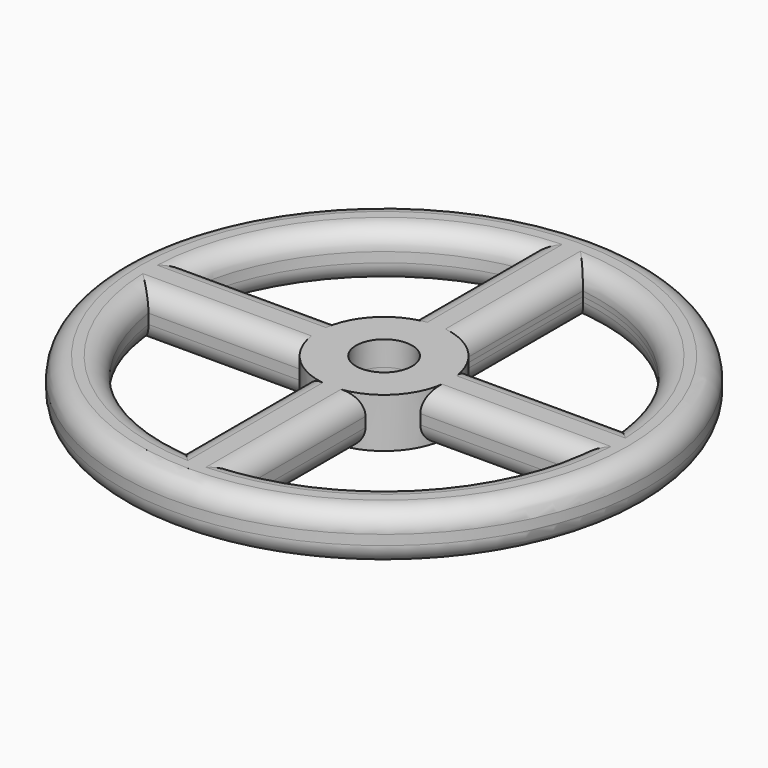
from build123d import *

# Parameters (mm, degrees)
F0_R          = 8
F0_W          = 1.75
F0_H          = 1.75
F0_R_2        = 0.85
F1_DEPTH      = 0.75
F1_DEPTH_BACK = 0.75
F2_R          = 0.6


with BuildPart() as f1:
    # F0 (on Top) → F1 (new body, two sides)
    with BuildSketch(Plane.XY) as f1_sk:
        Circle(F0_R)
        with BuildLine():
            ThreePointArc((0.875, 6.440836514), (4.5961940777, 4.5961940777), (6.440836514, 0.875))
            Line((6.440836514, 0.875), (7.3671648279, 0.875))
            Line((7.3671648279, 0.875), (7.3671648279, -0.875))
            Line((7.3671648279, -0.875), (6.440836514, -0.875))
            ThreePointArc((6.440836514, -0.875), (4.5961940777, -4.5961940777), (0.875, -6.440836514))
            Line((0.875, -6.440836514), (0.875, -6.9778915495))
            Line((0.875, -6.9778915495), (-0.875, -6.9778915495))
            Line((-0.875, -6.9778915495), (-0.875, -6.440836514))
            ThreePointArc((-0.875, -6.440836514), (-4.5961940777, -4.5961940777), (-6.440836514, -0.875))
            Line((-6.440836514, -0.875), (-7.3671648279, -0.875))
            Line((-7.3671648279, -0.875), (-7.3671648279, 0.875))
            Line((-7.3671648279, 0.875), (-6.440836514, 0.875))
            ThreePointArc((-6.440836514, 0.875), (-4.5961940777, 4.5961940777), (-0.875, 6.440836514))
            Line((-0.875, 6.440836514), (-0.875, 6.9778915495))
            Line((-0.875, 6.9778915495), (0.875, 6.9778915495))
            Line((0.875, 6.9778915495), (0.875, 6.440836514))
        make_face(mode=Mode.SUBTRACT)
        with BuildLine():
            Line((-1.7984368212, 0.875), (-6.440836514, 0.875))
            ThreePointArc((-6.440836514, 0.875), (-6.5, 0), (-6.440836514, -0.875))
            Line((-6.440836514, -0.875), (-1.7984368212, -0.875))
            ThreePointArc((-1.7984368212, -0.875), (-2, 0), (-1.7984368212, 0.875))
        make_face()
        with BuildLine():
            Line((0.875, 1.7984368212), (0.875, 6.440836514))
            ThreePointArc((0.875, 6.440836514), (0, 6.5), (-0.875, 6.440836514))
            Line((-0.875, 6.440836514), (-0.875, 1.7984368212))
            ThreePointArc((-0.875, 1.7984368212), (0, 2), (0.875, 1.7984368212))
        make_face()
        with BuildLine():
            ThreePointArc((6.440836514, -0.875), (6.4851922616, -0.4384989504), (6.5, 0))
            ThreePointArc((6.5, 0), (6.4851922616, 0.4384989504), (6.440836514, 0.875))
            Line((6.440836514, 0.875), (1.7984368212, 0.875))
            ThreePointArc((1.7984368212, 0.875), (1.9489578808, 0.4489578808), (2, 0))
            ThreePointArc((2, 0), (1.9489578808, -0.4489578808), (1.7984368212, -0.875))
            Line((1.7984368212, -0.875), (6.440836514, -0.875))
        make_face()
        with BuildLine():
            ThreePointArc((-0.875, -6.440836514), (0, -6.5), (0.875, -6.440836514))
            Line((0.875, -6.440836514), (0.875, -1.7984368212))
            ThreePointArc((0.875, -1.7984368212), (0, -2), (-0.875, -1.7984368212))
            Line((-0.875, -1.7984368212), (-0.875, -6.440836514))
        make_face()
        Rectangle(F0_W, F0_H)
        Circle(F0_R_2, mode=Mode.SUBTRACT)
        with BuildLine():
            Line((0.875, 0.875), (0.875, 1.7984368212))
            ThreePointArc((0.875, 1.7984368212), (0, 2), (-0.875, 1.7984368212))
            Line((-0.875, 1.7984368212), (-0.875, 0.875))
            Line((-0.875, 0.875), (0.875, 0.875))
        make_face()
        with BuildLine():
            Line((-0.875, -0.875), (-0.875, 0.875))
            Line((-0.875, 0.875), (-1.7984368212, 0.875))
            ThreePointArc((-1.7984368212, 0.875), (-2, 0), (-1.7984368212, -0.875))
            Line((-1.7984368212, -0.875), (-0.875, -0.875))
        make_face()
        with BuildLine():
            ThreePointArc((-0.875, -1.7984368212), (0, -2), (0.875, -1.7984368212))
            Line((0.875, -1.7984368212), (0.875, -0.875))
            Line((0.875, -0.875), (-0.875, -0.875))
            Line((-0.875, -0.875), (-0.875, -1.7984368212))
        make_face()
        with BuildLine():
            ThreePointArc((2, 0), (1.9489578808, 0.4489578808), (1.7984368212, 0.875))
            Line((1.7984368212, 0.875), (0.875, 0.875))
            Line((0.875, 0.875), (0.875, -0.875))
            Line((0.875, -0.875), (1.7984368212, -0.875))
            ThreePointArc((1.7984368212, -0.875), (1.9489578808, -0.4489578808), (2, 0))
        make_face()
        with BuildLine():
            ThreePointArc((-6.440836514, -0.875), (-6.5, 0), (-6.440836514, 0.875))
            Line((-6.440836514, 0.875), (-7.3671648279, 0.875))
            Line((-7.3671648279, 0.875), (-7.3671648279, -0.875))
            Line((-7.3671648279, -0.875), (-6.440836514, -0.875))
        make_face()
        with BuildLine():
            ThreePointArc((6.440836514, 0.875), (6.4851922616, 0.4384989504), (6.5, 0))
            ThreePointArc((6.5, 0), (6.4851922616, -0.4384989504), (6.440836514, -0.875))
            Line((6.440836514, -0.875), (7.3671648279, -0.875))
            Line((7.3671648279, -0.875), (7.3671648279, 0.875))
            Line((7.3671648279, 0.875), (6.440836514, 0.875))
        make_face()
        with BuildLine():
            ThreePointArc((-0.875, 6.440836514), (0, 6.5), (0.875, 6.440836514))
            Line((0.875, 6.440836514), (0.875, 6.9778915495))
            Line((0.875, 6.9778915495), (-0.875, 6.9778915495))
            Line((-0.875, 6.9778915495), (-0.875, 6.440836514))
        make_face()
        with BuildLine():
            Line((0.875, -6.9778915495), (0.875, -6.440836514))
            ThreePointArc((0.875, -6.440836514), (0, -6.5), (-0.875, -6.440836514))
            Line((-0.875, -6.440836514), (-0.875, -6.9778915495))
            Line((-0.875, -6.9778915495), (0.875, -6.9778915495))
        make_face()
        with BuildLine():
            Line((0.875, 0.875), (1.7984368212, 0.875))
            ThreePointArc((1.7984368212, 0.875), (1.4142135624, 1.4142135624), (0.875, 1.7984368212))
            Line((0.875, 1.7984368212), (0.875, 0.875))
        make_face()
        with BuildLine():
            Line((-0.875, 0.875), (-0.875, 1.7984368212))
            ThreePointArc((-0.875, 1.7984368212), (-1.4142135624, 1.4142135624), (-1.7984368212, 0.875))
            Line((-1.7984368212, 0.875), (-0.875, 0.875))
        make_face()
        with BuildLine():
            ThreePointArc((-1.7984368212, -0.875), (-1.4142135624, -1.4142135624), (-0.875, -1.7984368212))
            Line((-0.875, -1.7984368212), (-0.875, -0.875))
            Line((-0.875, -0.875), (-1.7984368212, -0.875))
        make_face()
        with BuildLine():
            ThreePointArc((0.875, -1.7984368212), (1.4142135624, -1.4142135624), (1.7984368212, -0.875))
            Line((1.7984368212, -0.875), (0.875, -0.875))
            Line((0.875, -0.875), (0.875, -1.7984368212))
        make_face()
    extrude(amount=F1_DEPTH)
    extrude(f1_sk.sketch, amount=-F1_DEPTH_BACK)

    # F2
    f2_edges = [f1.edges().sort_by_distance(p)[0] for p in [
        (-8, 0, 0.75),
        (-4.596194, -4.596194, 0.75),
        (-4.119637, -0.875, 0.75),
        (-4.119637, 0.875, 0.75),
        (-0.875, 4.119637, 0.75),
        (0.875, 4.119637, 0.75),
        (-4.596194, 4.596194, 0.75),
        (4.596194, 4.596194, 0.75),
        (4.119637, 0.875, 0.75),
        (4.119637, -0.875, 0.75),
        (4.596194, -4.596194, 0.75),
        (0.875, -4.119637, 0.75),
        (-0.875, -4.119637, 0.75),
        (-8, 0, -0.75),
        (4.596194, -4.596194, -0.75),
        (4.119637, -0.875, -0.75),
        (0.875, -4.119637, -0.75),
        (-0.875, -4.119637, -0.75),
        (-4.596194, -4.596194, -0.75),
        (-4.119637, -0.875, -0.75),
        (-4.119637, 0.875, -0.75),
        (-4.596194, 4.596194, -0.75),
        (4.596194, 4.596194, -0.75),
        (4.119637, 0.875, -0.75),
        (-0.875, 4.119637, -0.75),
        (0.875, 4.119637, -0.75),
    ]]
    fillet(f2_edges, radius=F2_R)


solid = f1.part
